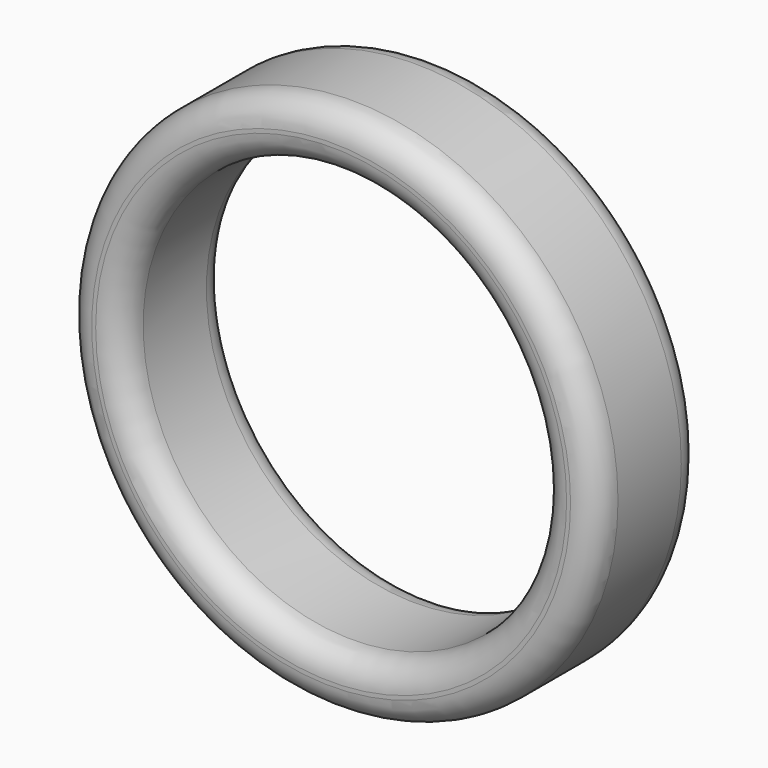
from build123d import *

# Parameters (mm, degrees)
F0_R     = 51.217295
F0_R_2   = 40.297185
F1_DEPTH = 25.4
F2_R     = 5.08
F3_R     = 5.08
F4_R     = 5.08


with BuildPart() as f1:
    # F0 (on Front) → F1 (new body)
    with BuildSketch(Plane.XZ):
        with Locations((-93.010761, 45.482028)):
            Circle(F0_R)
        with Locations((-93.010761, 45.482028)):
            Circle(F0_R_2, mode=Mode.SUBTRACT)
    extrude(amount=F1_DEPTH)

    # F2
    f2_edges = [f1.edges().sort_by_distance(p)[0] for p in [
        (-144.228056, -25.4, 45.482028),
        (-144.228056, 0, 45.482028),
    ]]
    fillet(f2_edges, radius=F2_R)

    # F3
    f3_edges = [f1.edges().sort_by_distance(p)[0] for p in [
        (-133.307946, -25.4, 45.482028),
    ]]
    fillet(f3_edges, radius=F3_R)

    # F4
    f4_edges = [f1.edges().sort_by_distance(p)[0] for p in [
        (-133.307946, 0, 45.482028),
    ]]
    fillet(f4_edges, radius=F4_R)


solid = f1.part
